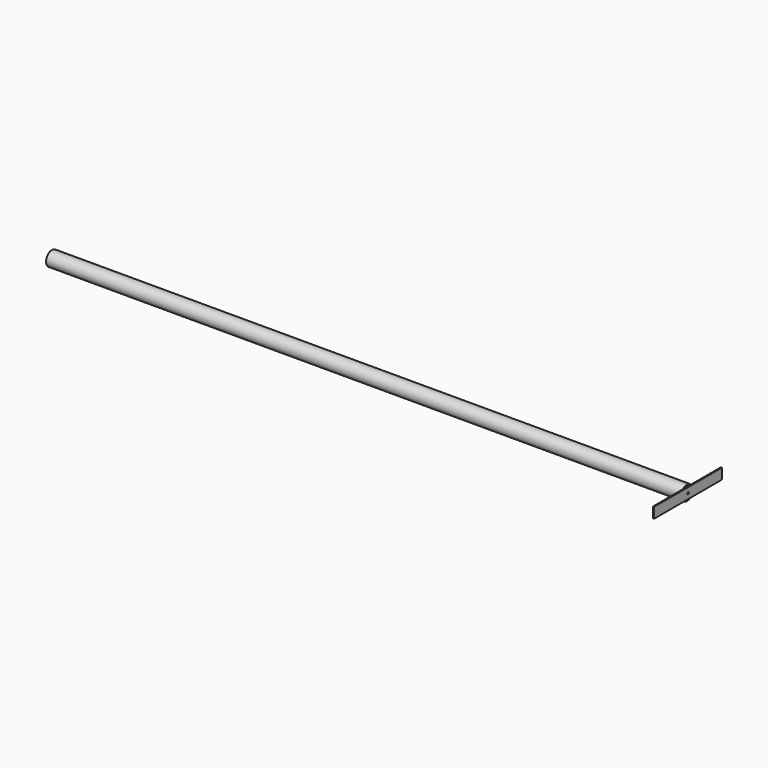
from build123d import *

# Parameters (mm, degrees)
F0_R     = 35.052
F0_R_2   = 31.75
F1_DEPTH = 1524
F2_R     = 31.496
F2_R_2   = 28.575
F3_DEPTH = 914.4
F4_W     = 406.4
F4_H     = 50.8
F5_DEPTH = 4.7625
F6_R     = 4.7625
F7_DEPTH = 4.7625


with BuildPart() as f1:
    # F0 (on Right) → F1 (new body, symmetric)
    with BuildSketch(Plane.YZ):
        Circle(F0_R)
        Circle(F0_R_2, mode=Mode.SUBTRACT)
    extrude(amount=F1_DEPTH, both=True)


with BuildPart() as f3:
    # F2 (on face) → F3 (new body)
    with BuildSketch(Plane.YZ.offset(1524)):
        Circle(F2_R)
        Circle(F2_R_2, mode=Mode.SUBTRACT)
    extrude(amount=-F3_DEPTH)


with BuildPart() as f5:
    # F4 (on face) → F5 (new body)
    with BuildSketch(Plane.YZ.offset(1524)):
        Rectangle(F4_W, F4_H)
    extrude(amount=F5_DEPTH)

    # F6 (on face) → F7 (cut, through all)
    with BuildSketch(Plane.YZ.offset(1528.7625)):
        Circle(F6_R)
    extrude(amount=-F7_DEPTH, mode=Mode.SUBTRACT)


solid = Compound([f1.part, f3.part, f5.part])
